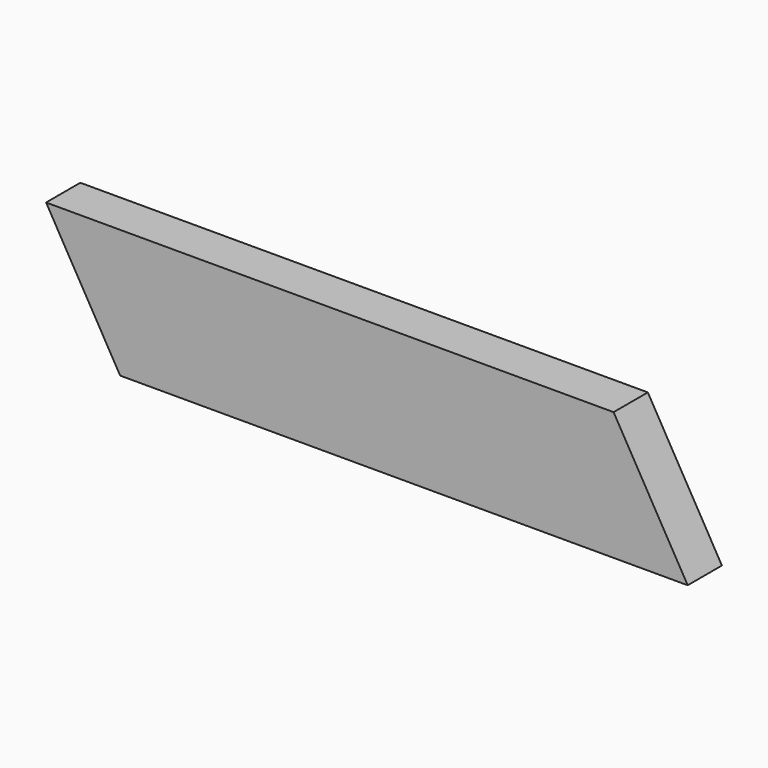
from build123d import *

# Parameters (mm, degrees)
F0_W     = 50
F0_H     = 150
F1_DEPTH = 375
F3_DEPTH = 50.001


with BuildPart() as f1:
    # F0 (on Right) → F1 (new body, symmetric)
    with BuildSketch(Plane.YZ):
        Rectangle(F0_W, F0_H)
    extrude(amount=F1_DEPTH, both=True)

    # F2 (on face) → F3 (cut, through all)
    with BuildSketch(Plane.XZ.offset(25)):
        Polygon((-288.39746, -75), (-375, 75), (-375, -75), align=None)
        Polygon((288.39746, 75), (375, -75), (375, 75), align=None)
    extrude(amount=-F3_DEPTH, mode=Mode.SUBTRACT)


solid = f1.part
